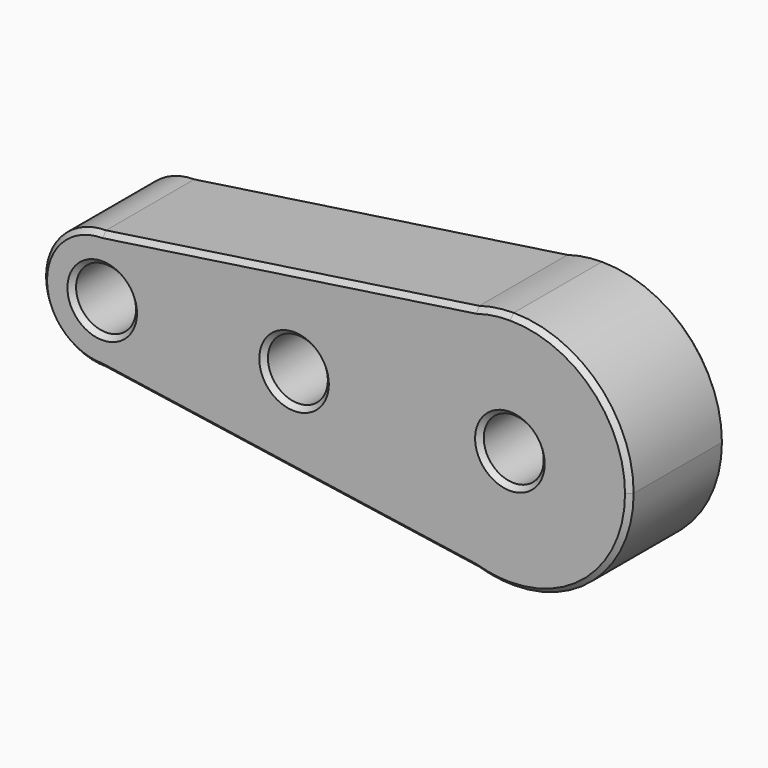
from build123d import *

# Parameters (mm, degrees)
F0_R     = 6.25
F1_DEPTH = 25
F2_SIZE  = 1
F3_SIZE  = 1


with BuildPart() as f1:
    # F0 (on Front) → F1 (new body)
    with BuildSketch(Plane.XZ):
        with BuildLine():
            ThreePointArc((0, -25), (17.67767, -17.67767), (25, 0))
            ThreePointArc((25, 0), (17.67767, 17.67767), (0, 25))
            Line((0, 25), (-7.19729, 23.941575))
            ThreePointArc((-7.19729, 23.941575), (-25, 0), (-7.19729, -23.941575))
            Line((-7.19729, -23.941575), (0, -25))
        make_face()
        Circle(F0_R, mode=Mode.SUBTRACT)
        with BuildLine():
            Line((-7.19729, 23.941575), (0, 25))
            ThreePointArc((0, 25), (-3.63735, 24.733978), (-7.19729, 23.941575))
        make_face()
        with BuildLine():
            ThreePointArc((-7.19729, -23.941575), (-3.63735, -24.733978), (0, -25))
            Line((0, -25), (-7.19729, -23.941575))
        make_face()
        with BuildLine():
            ThreePointArc((-7.19729, -23.941575), (-25, 0), (-7.19729, 23.941575))
            Line((-7.19729, 23.941575), (-85, 12.5))
            ThreePointArc((-85, 12.5), (-76.161165, 8.838835), (-72.5, 0))
            ThreePointArc((-72.5, 0), (-76.161165, -8.838835), (-85, -12.5))
            Line((-85, -12.5), (-7.19729, -23.941575))
        make_face()
        with Locations((-45, 0)):
            Circle(F0_R, mode=Mode.SUBTRACT)
        with BuildLine():
            ThreePointArc((-72.5, 0), (-76.161165, 8.838835), (-85, 12.5))
            ThreePointArc((-85, 12.5), (-97.5, 0), (-85, -12.5))
            ThreePointArc((-85, -12.5), (-76.161165, -8.838835), (-72.5, 0))
        make_face()
        with Locations((-85, 0)):
            Circle(F0_R, mode=Mode.SUBTRACT)
    extrude(amount=F1_DEPTH)

    # F2
    f2_edges = [f1.edges().sort_by_distance(p)[0] for p in [
        (-3.63735, -25, 24.733978),
        (-46.098645, -25, 18.220787),
        (-97.5, -25, 0),
        (-46.098645, -25, -18.220787),
        (24.733978, -25, -3.63735),
        (-6.25, -25, 0),
        (-51.25, -25, 0),
        (-91.25, -25, 0),
    ]]
    chamfer(f2_edges, length=F2_SIZE)

    # F3
    f3_edges = [f1.edges().sort_by_distance(p)[0] for p in [
        (-3.63735, 0, 24.733978),
        (-46.098645, 0, 18.220787),
        (-97.5, 0, 0),
        (-46.098645, 0, -18.220787),
        (24.733978, 0, -3.63735),
        (-6.25, 0, 0),
        (-51.25, 0, 0),
        (-91.25, 0, 0),
    ]]
    chamfer(f3_edges, length=F3_SIZE)


solid = f1.part
